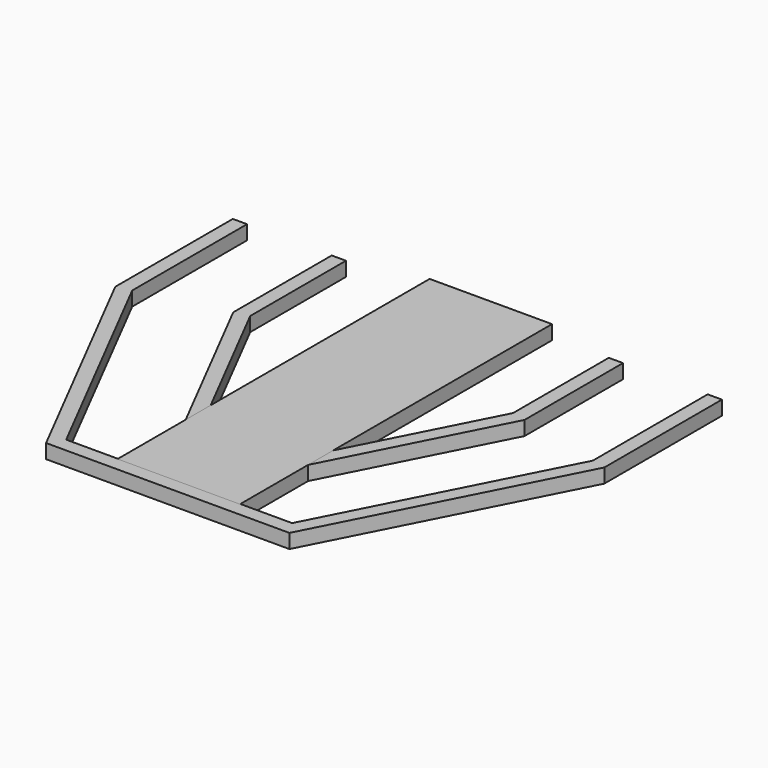
from build123d import *

# Parameters (mm, degrees)
F1_W          = 15
F1_H          = 15
F3_DEPTH      = 89.662
F3_DEPTH_BACK = 321.056


with BuildPart() as f2:
    # F2: sweep along a path in F0
    with BuildLine(Plane.XY) as f2_path:
        Line((-249.9995, 0), (-249.9995, -152.9491841793))
        Line((-249.9995, -152.9491841793), (-123.5281899571, -400))
        Line((-123.5281899571, -400), (0, -400))
        Line((0, -400), (123.5281899571, -400))
        Line((123.5281899571, -400), (249.9995, -152.9491841793))
        Line((249.9995, -152.9491841793), (249.9995, 0))
    # F1 (on Front) → F2 (sweep)
    with BuildSketch(Plane.XZ):
        with Locations((-249.9995678663, 0)):
            Rectangle(F1_W, F1_H)
        with Locations((-145.8593010902, 0)):
            Rectangle(F1_W, F1_H)
    sweep(path=f2_path.line, transition=Transition.RIGHT)


with BuildPart() as f3:
    # F3 (new, two sides): a face of the model
    f3_faces = [f2.part.faces().sort_by_distance(p)[0] for p in [
        (0, -303.3598010902, 0),
    ]]
    extrude(f3_faces, amount=F3_DEPTH)
    extrude(f3_faces, amount=-F3_DEPTH_BACK)


solid = Compound([f2.part, f3.part])
